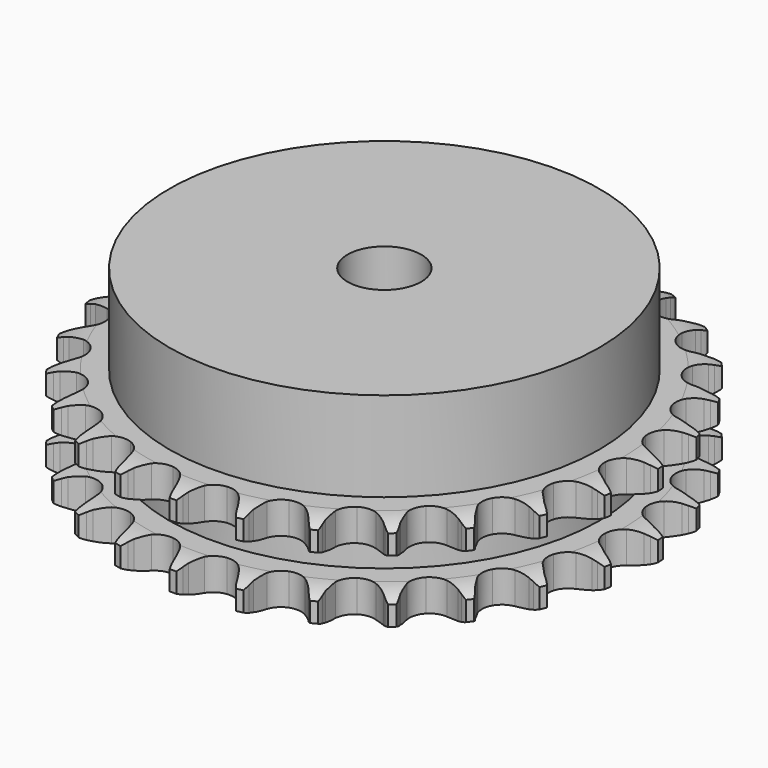
from build123d import *

# Parameters (mm, degrees)
PAD_DEPTH         = 15.4
SKETCH001_R       = 35
PAD001_DEPTH      = 30
SKETCH002_R       = 6
POCKET_DEPTH      = 0.001
POCKET_DEPTH_BACK = 30.001


with BuildPart() as part:
    # Sprocket → Pad (new body)
    with BuildSketch(Plane.XY):
        with BuildLine():
            ThreePointArc((-5.093235, 43.575406), (-4.465493, 42.777113), (-4.005642, 41.871645))
            Line((-4.005642, 41.871645), (-3.696414, 41.078363))
            ThreePointArc((-3.696414, 41.078363), (-3.203711, 40.034995), (-2.571218, 39.069943))
            ThreePointArc((-2.571218, 39.069943), (-1.435155, 38.130666), (0, 37.794201))
            ThreePointArc((0, 37.794201), (1.435155, 38.130666), (2.571218, 39.069943))
            ThreePointArc((2.571218, 39.069943), (3.203711, 40.034995), (3.696414, 41.078363))
            Line((3.696414, 41.078363), (4.005642, 41.871645))
            ThreePointArc((4.005642, 41.871645), (4.465493, 42.777113), (5.093235, 43.575406))
            ThreePointArc((5.093235, 43.575406), (5.519956, 42.653863), (5.758596, 41.666755))
            Line((5.758596, 41.666755), (5.876546, 40.823542))
            ThreePointArc((5.876546, 40.823542), (6.115351, 39.694673), (6.508239, 38.609771))
            ThreePointArc((6.508239, 38.609771), (7.397067, 37.433819), (8.715942, 36.775453))
            ThreePointArc((8.715942, 36.775453), (10.190007, 36.77188), (11.512059, 37.423844))
            Line((11.512059, 37.423844), (13.070099, 39.118639))
            ThreePointArc((13.070099, 39.118639), (13.303038, 39.475133), (13.553936, 39.819225))
            ThreePointArc((13.553936, 39.819225), (14.210206, 40.594237), (15.005126, 41.226245))
            ThreePointArc((15.005126, 41.226245), (15.207823, 40.231133), (15.212387, 39.215598))
            Line((15.212387, 39.215598), (15.1327, 38.367914))
            ThreePointArc((15.1327, 38.367914), (15.104732, 37.214401), (15.236834, 36.068137))
            ThreePointArc((15.236834, 36.068137), (15.83051, 34.718904), (16.962006, 33.774131))
            ThreePointArc((16.962006, 33.774131), (18.395513, 33.430712), (19.832282, 33.760216))
            Line((19.832282, 33.760216), (21.739172, 35.050019))
            ThreePointArc((21.739172, 35.050019), (22.048045, 35.343184), (22.371533, 35.62014))
            ThreePointArc((22.371533, 35.62014), (23.188843, 36.222915), (24.108087, 36.654566))
            ThreePointArc((24.108087, 36.654566), (24.075832, 35.639533), (23.846075, 34.650319))
            Line((23.846075, 34.650319), (23.573046, 33.843861))
            ThreePointArc((23.573046, 33.843861), (23.279814, 32.727891), (23.144008, 31.58206))
            ThreePointArc((23.144008, 31.58206), (23.410527, 30.132285), (24.293644, 28.952037))
            ThreePointArc((24.293644, 28.952037), (25.609312, 28.287285), (27.083342, 28.276566))
            Line((27.083342, 28.276566), (29.23628, 29.091843))
            ThreePointArc((29.23628, 29.091843), (29.604436, 29.305875), (29.983075, 29.500764))
            ThreePointArc((29.983075, 29.500764), (30.917364, 29.898806), (31.911375, 30.10683))
            ThreePointArc((31.911375, 30.10683), (31.645907, 29.126595), (31.194214, 28.217032))
            Line((31.194214, 28.217032), (30.742563, 27.495277))
            ThreePointArc((30.742563, 27.495277), (30.199875, 26.477012), (29.803482, 25.393385))
            ThreePointArc((29.803482, 25.393385), (29.728477, 23.921226), (30.315605, 22.569132))
            ThreePointArc((30.315605, 22.569132), (31.442507, 21.618884), (32.874332, 21.268519))
            Line((32.874332, 21.268519), (35.157253, 21.565318))
            ThreePointArc((35.157253, 21.565318), (35.564845, 21.688679), (35.978222, 21.790994))
            ThreePointArc((35.978222, 21.790994), (36.979121, 21.962845), (37.994313, 21.936027))
            ThreePointArc((37.994313, 21.936027), (37.509943, 21.043436), (36.860665, 20.262557))
            Line((36.860665, 20.262557), (36.25474, 19.664415))
            ThreePointArc((36.25474, 19.664415), (35.491852, 18.79875), (34.856243, 17.835747))
            ThreePointArc((34.856243, 17.835747), (34.443756, 16.420568), (34.703244, 14.969518))
            ThreePointArc((34.703244, 14.969518), (35.580628, 13.785003), (36.893058, 13.11388))
            Line((36.893058, 13.11388), (39.18289, 12.876202))
            ThreePointArc((39.18289, 12.876202), (39.607943, 12.90224), (40.033773, 12.906466))
            ThreePointArc((40.033773, 12.906466), (41.047325, 12.842862), (42.028967, 12.582647))
            ThreePointArc((42.028967, 12.582647), (41.351808, 11.825819), (40.539949, 11.215723))
            Line((40.539949, 11.215723), (39.812415, 10.77344))
            ThreePointArc((39.812415, 10.77344), (38.870455, 10.107043), (38.029895, 9.31658))
            ThreePointArc((38.029895, 9.31658), (37.302164, 8.034672), (37.220022, 6.562894))
            ThreePointArc((37.220022, 6.562894), (37.800588, 5.207969), (38.92287, 4.252269))
            Line((38.92287, 4.252269), (41.096166, 3.492926))
            ThreePointArc((41.096166, 3.492926), (41.515768, 3.420238), (41.931094, 3.326147))
            ThreePointArc((41.931094, 3.326147), (42.902657, 3.030516), (43.797829, 2.550933))
            ThreePointArc((43.797829, 2.550933), (42.964386, 1.97067), (42.033713, 1.564246))
            Line((42.033713, 1.564246), (41.223793, 1.301666))
            ThreePointArc((41.223793, 1.301666), (40.153541, 0.870463), (39.153346, 0.295153))
            ThreePointArc((39.153346, 0.295153), (38.149602, -0.784374), (37.730259, -2.197537))
            ThreePointArc((37.730259, -2.197537), (37.982708, -3.649828), (38.85434, -4.838583))
            Line((38.85434, -4.838583), (40.793938, -6.078654))
            ThreePointArc((40.793938, -6.078654), (41.185466, -6.24615), (41.567898, -6.433485))
            ThreePointArc((41.567898, -6.433485), (42.445095, -6.945206), (43.205538, -7.618302))
            ThreePointArc((43.205538, -7.618302), (42.260743, -7.990719), (41.261428, -8.17156))
            Line((41.261428, -8.17156), (40.412785, -8.240282))
            ThreePointArc((40.412785, -8.240282), (39.27194, -8.413045), (38.166029, -8.742186))
            ThreePointArc((38.166029, -8.742186), (36.940386, -9.561135), (36.206448, -10.839499))
            ThreePointArc((36.206448, -10.839499), (36.117171, -12.310862), (36.691162, -13.668586))
            Line((36.691162, -13.668586), (38.292498, -15.322533))
            ThreePointArc((38.292498, -15.322533), (38.634845, -15.575806), (38.963766, -15.846287))
            ThreePointArc((38.963766, -15.846287), (39.699308, -16.546509), (40.284026, -17.376833))
            ThreePointArc((40.284026, -17.376833), (39.278812, -17.521326), (38.26473, -17.466835))
            Line((38.26473, -17.466835), (37.423113, -17.337993))
            ThreePointArc((37.423113, -17.337993), (36.273178, -17.243003), (35.121172, -17.308231))
            ThreePointArc((35.121172, -17.308231), (33.739703, -17.822453), (32.730738, -18.8971))
            ThreePointArc((32.730738, -18.8971), (32.304548, -20.308214), (32.549954, -21.761711))
            Line((32.549954, -21.761711), (33.726699, -23.74037))
            ThreePointArc((33.726699, -23.74037), (34.00141, -24.065767), (34.259087, -24.404811))
            ThreePointArc((34.259087, -24.404811), (34.81332, -25.255786), (35.190792, -26.198574))
            ThreePointArc((35.190792, -26.198574), (34.179351, -26.107354), (33.20517, -25.820468))
            Line((33.20517, -25.820468), (32.415952, -25.501009))
            ThreePointArc((32.415952, -25.501009), (31.31892, -25.143386), (30.182923, -24.941185))
            ThreePointArc((30.182923, -24.941185), (28.720105, -25.122957), (27.490505, -25.935954))
            ThreePointArc((27.490505, -25.935954), (26.750379, -27.210745), (26.65397, -28.681658))
            Line((26.65397, -28.681658), (27.342686, -30.878357))
            ThreePointArc((27.342686, -30.878357), (27.534949, -31.258335), (27.707493, -31.647665))
            ThreePointArc((27.707493, -31.647665), (28.050537, -32.603517), (28.200412, -33.607943))
            ThreePointArc((28.200412, -33.607943), (27.237272, -33.285928), (26.355511, -32.782113))
            Line((26.355511, -32.782113), (25.661238, -32.289259))
            ThreePointArc((25.661238, -32.289259), (24.676251, -31.688283), (23.617505, -31.229554))
            ThreePointArc((23.617505, -31.229554), (22.152198, -31.069076), (20.768253, -31.576594))
            ThreePointArc((20.768253, -31.576594), (19.754089, -32.646338), (19.321063, -34.055368))
            Line((19.321063, -34.055368), (19.484621, -36.351684))
            ThreePointArc((19.484621, -36.351684), (19.584073, -36.765759), (19.66218, -37.184386))
            ThreePointArc((19.66218, -37.184386), (19.775543, -38.193584), (19.689742, -39.205499))
            ThreePointArc((19.689742, -39.205499), (18.826825, -38.670049), (18.085019, -37.976466))
            Line((18.085019, -37.976466), (17.52312, -37.336787))
            ThreePointArc((17.52312, -37.336787), (16.703278, -36.524856), (15.778862, -35.834329))
            ThreePointArc((15.778862, -35.834329), (14.390061, -35.340254), (12.926378, -35.514931))
            ThreePointArc((12.926378, -35.514931), (11.692851, -36.321958), (10.946553, -37.593145))
            Line((10.946553, -37.593145), (10.576135, -39.865283))
            ThreePointArc((10.576135, -39.865283), (10.577414, -40.291132), (10.556873, -40.716487))
            ThreePointArc((10.556873, -40.716487), (10.434444, -41.724625), (10.117592, -42.689477))
            ThreePointArc((10.117592, -42.689477), (9.401418, -41.969457), (8.839559, -41.123498))
            Line((8.839559, -41.123498), (8.440327, -40.371479))
            ThreePointArc((8.440327, -40.371479), (7.829828, -39.392365), (7.089576, -38.507266))
            ThreePointArc((7.089576, -38.507266), (5.852151, -37.706229), (4.387639, -37.53865))
            ThreePointArc((4.387639, -37.53865), (3.001249, -38.039452), (1.981911, -39.104266))
            Line((1.981911, -39.104266), (1.097487, -41.229734))
            ThreePointArc((1.097487, -41.229734), (1.000524, -41.644399), (0.882444, -42.053551))
            ThreePointArc((0.882444, -42.053551), (0.530821, -43.006281), (0, -43.872053))
            ThreePointArc((0, -43.872053), (-0.530821, -43.006281), (-0.882444, -42.053551))
            Line((-0.882444, -42.053551), (-1.097487, -41.229734))
            ThreePointArc((-1.097487, -41.229734), (-1.465731, -40.136221), (-1.981911, -39.104266))
            ThreePointArc((-1.981911, -39.104266), (-3.001249, -38.039452), (-4.387639, -37.53865))
            ThreePointArc((-4.387639, -37.53865), (-5.852151, -37.706229), (-7.089576, -38.507266))
            Line((-7.089576, -38.507266), (-8.440327, -40.371479))
            ThreePointArc((-8.440327, -40.371479), (-8.630304, -40.752605), (-8.839559, -41.123498))
            ThreePointArc((-8.839559, -41.123498), (-9.401418, -41.969457), (-10.117592, -42.689477))
            ThreePointArc((-10.117592, -42.689477), (-10.434444, -41.724625), (-10.556873, -40.716487))
            Line((-10.556873, -40.716487), (-10.576135, -39.865283))
            ThreePointArc((-10.576135, -39.865283), (-10.682271, -38.716323), (-10.946553, -37.593145))
            ThreePointArc((-10.946553, -37.593145), (-11.692851, -36.321958), (-12.926378, -35.514931))
            ThreePointArc((-12.926378, -35.514931), (-14.390061, -35.340254), (-15.778862, -35.834329))
            Line((-15.778862, -35.834329), (-17.52312, -37.336787))
            ThreePointArc((-17.52312, -37.336787), (-17.795871, -37.663828), (-18.085019, -37.976466))
            ThreePointArc((-18.085019, -37.976466), (-18.826825, -38.670049), (-19.689742, -39.205499))
            ThreePointArc((-19.689742, -39.205499), (-19.775543, -38.193584), (-19.66218, -37.184386))
            Line((-19.66218, -37.184386), (-19.484621, -36.351684))
            ThreePointArc((-19.484621, -36.351684), (-19.322928, -35.209218), (-19.321063, -34.055368))
            ThreePointArc((-19.321063, -34.055368), (-19.754089, -32.646338), (-20.768253, -31.576594))
            ThreePointArc((-20.768253, -31.576594), (-22.152198, -31.069076), (-23.617505, -31.229554))
            Line((-23.617505, -31.229554), (-25.661238, -32.289259))
            ThreePointArc((-25.661238, -32.289259), (-26.002057, -32.544585), (-26.355511, -32.782113))
            ThreePointArc((-26.355511, -32.782113), (-27.237272, -33.285928), (-28.200412, -33.607943))
            ThreePointArc((-28.200412, -33.607943), (-28.050537, -32.603517), (-27.707493, -31.647665))
            Line((-27.707493, -31.647665), (-27.342686, -30.878357))
            ThreePointArc((-27.342686, -30.878357), (-26.92188, -29.803975), (-26.65397, -28.681658))
            ThreePointArc((-26.65397, -28.681658), (-26.750379, -27.210745), (-27.490505, -25.935954))
            ThreePointArc((-27.490505, -25.935954), (-28.720105, -25.122957), (-30.182923, -24.941185))
            Line((-30.182923, -24.941185), (-32.415952, -25.501009))
            ThreePointArc((-32.415952, -25.501009), (-32.806466, -25.670854), (-33.20517, -25.820468))
            ThreePointArc((-33.20517, -25.820468), (-34.179351, -26.107354), (-35.190792, -26.198574))
            ThreePointArc((-35.190792, -26.198574), (-34.81332, -25.255786), (-34.259087, -24.404811))
            Line((-34.259087, -24.404811), (-33.726699, -23.74037))
            ThreePointArc((-33.726699, -23.74037), (-33.069467, -22.791993), (-32.549954, -21.761711))
            ThreePointArc((-32.549954, -21.761711), (-32.304548, -20.308214), (-32.730738, -18.8971))
            ThreePointArc((-32.730738, -18.8971), (-33.739703, -17.822453), (-35.121172, -17.308231))
            Line((-35.121172, -17.308231), (-37.423113, -17.337993))
            ThreePointArc((-37.423113, -17.337993), (-37.84227, -17.413201), (-38.26473, -17.466835))
            ThreePointArc((-38.26473, -17.466835), (-39.278812, -17.521326), (-40.284026, -17.376833))
            ThreePointArc((-40.284026, -17.376833), (-39.699308, -16.546509), (-38.963766, -15.846287))
            Line((-38.963766, -15.846287), (-38.292498, -15.322533))
            ThreePointArc((-38.292498, -15.322533), (-37.434271, -14.551287), (-36.691162, -13.668586))
            ThreePointArc((-36.691162, -13.668586), (-36.117171, -12.310862), (-36.206448, -10.839499))
            ThreePointArc((-36.206448, -10.839499), (-36.940386, -9.561135), (-38.166029, -8.742186))
            Line((-38.166029, -8.742186), (-40.412785, -8.240282))
            ThreePointArc((-40.412785, -8.240282), (-40.837987, -8.216798), (-41.261428, -8.17156))
            ThreePointArc((-41.261428, -8.17156), (-42.260743, -7.990719), (-43.205538, -7.618302))
            ThreePointArc((-43.205538, -7.618302), (-42.445095, -6.945206), (-41.567898, -6.433485))
            Line((-41.567898, -6.433485), (-40.793938, -6.078654))
            ThreePointArc((-40.793938, -6.078654), (-39.780983, -5.526119), (-38.85434, -4.838583))
            ThreePointArc((-38.85434, -4.838583), (-37.982708, -3.649828), (-37.730259, -2.197537))
            ThreePointArc((-37.730259, -2.197537), (-38.149602, -0.784374), (-39.153346, 0.295153))
            Line((-39.153346, 0.295153), (-41.223793, 1.301666))
            ThreePointArc((-41.223793, 1.301666), (-41.632118, 1.422575), (-42.033713, 1.564246))
            ThreePointArc((-42.033713, 1.564246), (-42.964386, 1.97067), (-43.797829, 2.550933))
            ThreePointArc((-43.797829, 2.550933), (-42.902657, 3.030516), (-41.931094, 3.326147))
            Line((-41.931094, 3.326147), (-41.096166, 3.492926))
            ThreePointArc((-41.096166, 3.492926), (-39.983092, 3.796965), (-38.92287, 4.252269))
            ThreePointArc((-38.92287, 4.252269), (-37.800588, 5.207969), (-37.220022, 6.562894))
            ThreePointArc((-37.220022, 6.562894), (-37.302164, 8.034672), (-38.029895, 9.31658))
            Line((-38.029895, 9.31658), (-39.812415, 10.77344))
            ThreePointArc((-39.812415, 10.77344), (-40.181851, 10.985256), (-40.539949, 11.215723))
            ThreePointArc((-40.539949, 11.215723), (-41.351808, 11.825819), (-42.028967, 12.582647))
            ThreePointArc((-42.028967, 12.582647), (-41.047325, 12.842862), (-40.033773, 12.906466))
            Line((-40.033773, 12.906466), (-39.18289, 12.876202))
            ThreePointArc((-39.18289, 12.876202), (-38.029702, 12.915353), (-36.893058, 13.11388))
            ThreePointArc((-36.893058, 13.11388), (-35.580628, 13.785003), (-34.703244, 14.969518))
            ThreePointArc((-34.703244, 14.969518), (-34.443756, 16.420568), (-34.856243, 17.835747))
            Line((-34.856243, 17.835747), (-36.25474, 19.664415))
            ThreePointArc((-36.25474, 19.664415), (-36.565369, 19.95572), (-36.860665, 20.262557))
            ThreePointArc((-36.860665, 20.262557), (-37.509943, 21.043436), (-37.994313, 21.936027))
            ThreePointArc((-37.994313, 21.936027), (-36.979121, 21.962845), (-35.978222, 21.790994))
            Line((-35.978222, 21.790994), (-35.157253, 21.565318))
            ThreePointArc((-35.157253, 21.565318), (-34.026122, 21.33747), (-32.874332, 21.268519))
            ThreePointArc((-32.874332, 21.268519), (-31.442507, 21.618884), (-30.315605, 22.569132))
            ThreePointArc((-30.315605, 22.569132), (-29.728477, 23.921226), (-29.803482, 25.393385))
            Line((-29.803482, 25.393385), (-30.742563, 27.495277))
            ThreePointArc((-30.742563, 27.495277), (-30.977639, 27.850365), (-31.194214, 28.217032))
            ThreePointArc((-31.194214, 28.217032), (-31.645907, 29.126595), (-31.911375, 30.10683))
            ThreePointArc((-31.911375, 30.10683), (-30.917364, 29.898806), (-29.983075, 29.500764))
            Line((-29.983075, 29.500764), (-29.23628, 29.091843))
            ThreePointArc((-29.23628, 29.091843), (-28.188184, 28.60928), (-27.083342, 28.276566))
            ThreePointArc((-27.083342, 28.276566), (-25.609312, 28.287285), (-24.293644, 28.952037))
            ThreePointArc((-24.293644, 28.952037), (-23.410527, 30.132285), (-23.144008, 31.58206))
            Line((-23.144008, 31.58206), (-23.573046, 33.843861))
            ThreePointArc((-23.573046, 33.843861), (-23.719897, 34.24359), (-23.846075, 34.650319))
            ThreePointArc((-23.846075, 34.650319), (-24.075832, 35.639533), (-24.108087, 36.654566))
            ThreePointArc((-24.108087, 36.654566), (-23.188843, 36.222915), (-22.371533, 35.62014))
            Line((-22.371533, 35.62014), (-21.739172, 35.050019))
            ThreePointArc((-21.739172, 35.050019), (-20.830614, 34.338756), (-19.832282, 33.760216))
            ThreePointArc((-19.832282, 33.760216), (-18.395513, 33.430712), (-16.962006, 33.774131))
            ThreePointArc((-16.962006, 33.774131), (-15.83051, 34.718904), (-15.236834, 36.068137))
            Line((-15.236834, 36.068137), (-15.1327, 38.367914))
            ThreePointArc((-15.1327, 38.367914), (-15.183408, 38.790735), (-15.212387, 39.215598))
            ThreePointArc((-15.212387, 39.215598), (-15.207823, 40.231133), (-15.005126, 41.226245))
            ThreePointArc((-15.005126, 41.226245), (-14.210206, 40.594237), (-13.553936, 39.819225))
            Line((-13.553936, 39.819225), (-13.070099, 39.118639))
            ThreePointArc((-13.070099, 39.118639), (-12.35006, 38.21702), (-11.512059, 37.423844))
            ThreePointArc((-11.512059, 37.423844), (-10.190007, 36.77188), (-8.715942, 36.775453))
            ThreePointArc((-8.715942, 36.775453), (-7.397067, 37.433819), (-6.508239, 38.609771))
            Line((-6.508239, 38.609771), (-5.876546, 40.823542))
            ThreePointArc((-5.876546, 40.823542), (-5.828379, 41.24666), (-5.758596, 41.666755))
            ThreePointArc((-5.758596, 41.666755), (-5.519956, 42.653863), (-5.093235, 43.575406))
        make_face()
    extrude(amount=PAD_DEPTH)

    # Sketch → Groove (revolve, cut)
    with BuildSketch(Plane.XZ):
        with BuildLine():
            ThreePointArc((38.641101, 0), (40.877169, 0.253206), (43, 1))
            Line((43, 1), (43, 4.2))
            ThreePointArc((43, 4.2), (40.877169, 4.946794), (38.641101, 5.2))
            Line((35, 5.2), (38.641101, 5.2))
            Line((35, 10.2), (35, 5.2))
            Line((38.641101, 10.2), (35, 10.2))
            ThreePointArc((38.641101, 10.2), (40.877169, 10.453206), (43, 11.2))
            Line((43, 11.2), (43, 14.4))
            ThreePointArc((43, 14.4), (40.877169, 15.146794), (38.641101, 15.4))
            Line((38.641101, 15.4), (48.641101, 15.4))
            Line((48.641101, 15.4), (48.641101, 0))
            Line((38.641101, 0), (48.641101, 0))
        make_face()
    revolve(axis=Axis((0, 0, 0), (0, 0, 1)), mode=Mode.SUBTRACT)

    # Sketch001 → Pad001 (join)
    with BuildSketch(Plane.XY):
        Circle(SKETCH001_R)
    extrude(amount=PAD001_DEPTH)

    # Sketch002 → Pocket (cut, two sides)
    with BuildSketch(Plane.XY) as pocket_sk:
        Circle(SKETCH002_R)
    extrude(amount=-POCKET_DEPTH, mode=Mode.SUBTRACT)
    extrude(pocket_sk.sketch, amount=POCKET_DEPTH_BACK, mode=Mode.SUBTRACT)


solid = part.part
